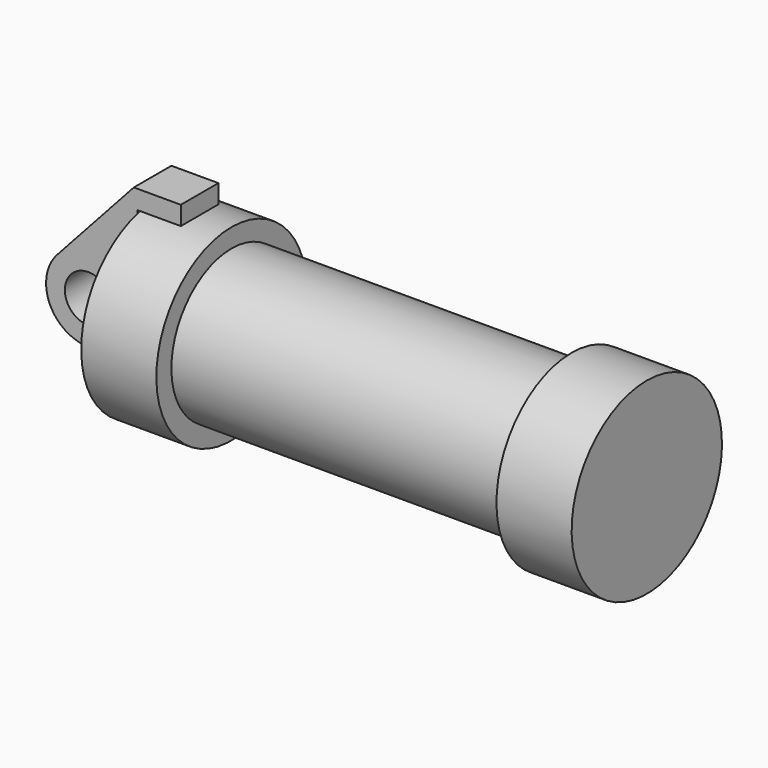
from build123d import *

# Parameters (mm, degrees)
F0_W     = 5.842
F0_H     = 12.7
F0_R     = 3.175
F2_DEPTH = 3.175


with BuildPart() as f1:
    # F0 (on Front) → F1 (revolve)
    with BuildSketch(Plane.XZ):
        with Locations((2.921, 6.35)):
            Rectangle(F0_W, F0_H)
        Polygon((5.842, 12.7), (5.842, 0), (66.294, 0), (66.294, 12.7), (56.134, 12.7), (56.134, 10.16), (10.16, 10.16), (10.16, 12.7), align=None)
    revolve(axis=Axis((33.147, 0, 0), (-1, 0, 0)))


with BuildPart() as f2:
    # F0 (on Front) → F2 (new body, symmetric)
    with BuildSketch(Plane.XZ):
        with BuildLine():
            Line((-0.9398, 0), (0, 0))
            Line((0, 0), (0, 12.7))
            Line((0, 12.7), (5.842, 12.7))
            Line((5.842, 12.7), (5.842, 15.24))
            Line((5.842, 15.24), (-0.508, 15.24))
            Line((-0.508, 15.24), (-10.88063, 3.847543))
            ThreePointArc((-10.88063, 3.847543), (-4.591961, 5.329721), (-0.9398, 0))
        make_face()
        with BuildLine():
            Line((5.842, 0), (0, 0))
            Line((0, 0), (-0.9398, 0))
            ThreePointArc((-0.9398, 0), (-3.195791, -4.549339), (-8.182663, -5.506983))
            Line((-8.182663, -5.506983), (5.842, -9.398))
            Line((5.842, -9.398), (5.842, 0))
        make_face()
        with BuildLine():
            ThreePointArc((-8.182663, -5.506983), (-3.195791, -4.549339), (-0.9398, 0))
            ThreePointArc((-0.9398, 0), (-4.591961, 5.329721), (-10.88063, 3.847543))
            ThreePointArc((-10.88063, 3.847543), (-12.145978, -1.583727), (-8.182663, -5.506983))
        make_face()
        with Locations((-6.6548, 0)):
            Circle(F0_R, mode=Mode.SUBTRACT)
    extrude(amount=F2_DEPTH, both=True)


solid = Compound([f1.part, f2.part])
